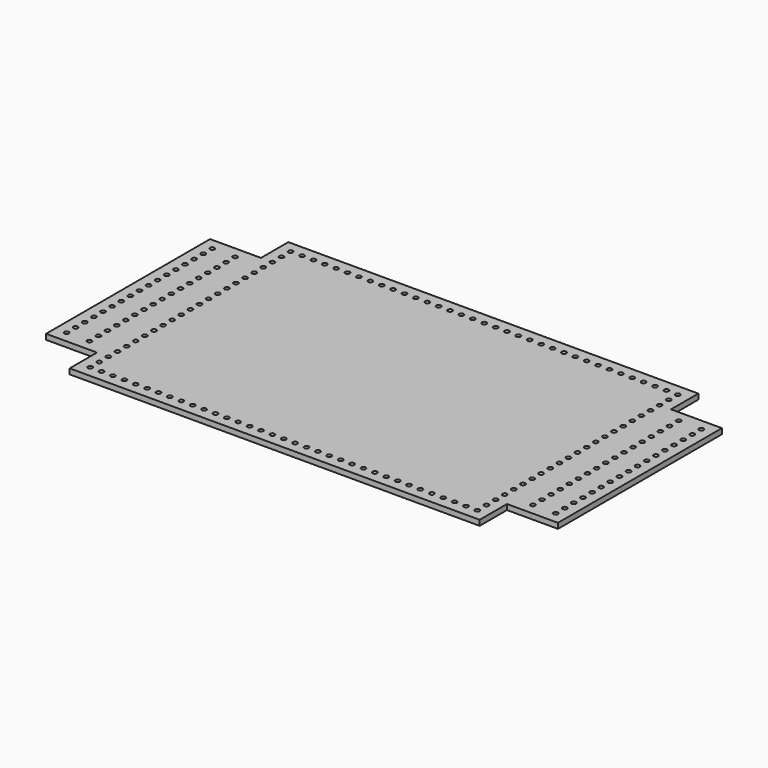
from build123d import *

# Parameters (mm, degrees)
F0_R     = 2.5527
F1_DEPTH = 6


with BuildPart() as f1:
    # F0 (on Top) → F1 (new body)
    with BuildSketch(Plane.XY):
        Polygon((228.6, 114.3), (228.6, 152.4), (-228.6, 152.4), (-228.6, 114.3), (-285.4, 114.3), (-285.4, -114.3), (-228.6, -114.3), (-228.6, -152.4), (228.6, -152.4), (228.6, -114.3), (285.4, -114.3), (285.4, 114.3), align=None)
        with Locations((-215.9, -139.7)):
            Circle(F0_R, mode=Mode.SUBTRACT)
        with Locations((-215.9, -127)):
            Circle(F0_R, mode=Mode.SUBTRACT)
        with Locations((-203.2, -139.7)):
            Circle(F0_R, mode=Mode.SUBTRACT)
        with Locations((-190.5, -139.7)):
            Circle(F0_R, mode=Mode.SUBTRACT)
        with Locations((-177.8, -139.7)):
            Circle(F0_R, mode=Mode.SUBTRACT)
        with Locations((-165.1, -139.7)):
            Circle(F0_R, mode=Mode.SUBTRACT)
        with Locations((-152.4, -139.7)):
            Circle(F0_R, mode=Mode.SUBTRACT)
        with Locations((-272.7, -101.6)):
            Circle(F0_R, mode=Mode.SUBTRACT)
        with Locations((-215.9, -114.3)):
            Circle(F0_R, mode=Mode.SUBTRACT)
        with Locations((-247.3, -101.6)):
            Circle(F0_R, mode=Mode.SUBTRACT)
        with Locations((-215.9, -101.6)):
            Circle(F0_R, mode=Mode.SUBTRACT)
        with Locations((-272.7, -88.9)):
            Circle(F0_R, mode=Mode.SUBTRACT)
        with Locations((-247.3, -88.9)):
            Circle(F0_R, mode=Mode.SUBTRACT)
        with Locations((-215.9, -88.9)):
            Circle(F0_R, mode=Mode.SUBTRACT)
        with Locations((-139.7, -139.7)):
            Circle(F0_R, mode=Mode.SUBTRACT)
        with Locations((-127, -139.7)):
            Circle(F0_R, mode=Mode.SUBTRACT)
        with Locations((-114.3, -139.7)):
            Circle(F0_R, mode=Mode.SUBTRACT)
        with Locations((-101.6, -139.7)):
            Circle(F0_R, mode=Mode.SUBTRACT)
        with Locations((-88.9, -139.7)):
            Circle(F0_R, mode=Mode.SUBTRACT)
        with Locations((-76.2, -139.7)):
            Circle(F0_R, mode=Mode.SUBTRACT)
        with Locations((-63.5, -139.7)):
            Circle(F0_R, mode=Mode.SUBTRACT)
        with Locations((-50.8, -139.7)):
            Circle(F0_R, mode=Mode.SUBTRACT)
        with Locations((-38.1, -139.7)):
            Circle(F0_R, mode=Mode.SUBTRACT)
        with Locations((-25.4, -139.7)):
            Circle(F0_R, mode=Mode.SUBTRACT)
        with Locations((-12.7, -139.7)):
            Circle(F0_R, mode=Mode.SUBTRACT)
        with Locations((-272.7, -76.2)):
            Circle(F0_R, mode=Mode.SUBTRACT)
        with Locations((-272.7, -63.5)):
            Circle(F0_R, mode=Mode.SUBTRACT)
        with Locations((-247.3, -76.2)):
            Circle(F0_R, mode=Mode.SUBTRACT)
        with Locations((-215.9, -76.2)):
            Circle(F0_R, mode=Mode.SUBTRACT)
        with Locations((-247.3, -63.5)):
            Circle(F0_R, mode=Mode.SUBTRACT)
        with Locations((-215.9, -63.5)):
            Circle(F0_R, mode=Mode.SUBTRACT)
        with Locations((-272.7, -50.8)):
            Circle(F0_R, mode=Mode.SUBTRACT)
        with Locations((-247.3, -50.8)):
            Circle(F0_R, mode=Mode.SUBTRACT)
        with Locations((-215.9, -50.8)):
            Circle(F0_R, mode=Mode.SUBTRACT)
        with Locations((-272.7, -38.1)):
            Circle(F0_R, mode=Mode.SUBTRACT)
        with Locations((-272.7, -25.4)):
            Circle(F0_R, mode=Mode.SUBTRACT)
        with Locations((-247.3, -38.1)):
            Circle(F0_R, mode=Mode.SUBTRACT)
        with Locations((-215.9, -38.1)):
            Circle(F0_R, mode=Mode.SUBTRACT)
        with Locations((-247.3, -25.4)):
            Circle(F0_R, mode=Mode.SUBTRACT)
        with Locations((-215.9, -25.4)):
            Circle(F0_R, mode=Mode.SUBTRACT)
        with Locations((-272.7, -12.7)):
            Circle(F0_R, mode=Mode.SUBTRACT)
        with Locations((-247.3, -12.7)):
            Circle(F0_R, mode=Mode.SUBTRACT)
        with Locations((-215.9, -12.7)):
            Circle(F0_R, mode=Mode.SUBTRACT)
        with Locations((0, -139.7)):
            Circle(F0_R, mode=Mode.SUBTRACT)
        with Locations((12.7, -139.7)):
            Circle(F0_R, mode=Mode.SUBTRACT)
        with Locations((25.4, -139.7)):
            Circle(F0_R, mode=Mode.SUBTRACT)
        with Locations((38.1, -139.7)):
            Circle(F0_R, mode=Mode.SUBTRACT)
        with Locations((50.8, -139.7)):
            Circle(F0_R, mode=Mode.SUBTRACT)
        with Locations((63.5, -139.7)):
            Circle(F0_R, mode=Mode.SUBTRACT)
        with Locations((76.2, -139.7)):
            Circle(F0_R, mode=Mode.SUBTRACT)
        with Locations((88.9, -139.7)):
            Circle(F0_R, mode=Mode.SUBTRACT)
        with Locations((101.6, -139.7)):
            Circle(F0_R, mode=Mode.SUBTRACT)
        with Locations((114.3, -139.7)):
            Circle(F0_R, mode=Mode.SUBTRACT)
        with Locations((127, -139.7)):
            Circle(F0_R, mode=Mode.SUBTRACT)
        with Locations((139.7, -139.7)):
            Circle(F0_R, mode=Mode.SUBTRACT)
        with Locations((152.4, -139.7)):
            Circle(F0_R, mode=Mode.SUBTRACT)
        with Locations((165.1, -139.7)):
            Circle(F0_R, mode=Mode.SUBTRACT)
        with Locations((177.8, -139.7)):
            Circle(F0_R, mode=Mode.SUBTRACT)
        with Locations((190.5, -139.7)):
            Circle(F0_R, mode=Mode.SUBTRACT)
        with Locations((203.2, -139.7)):
            Circle(F0_R, mode=Mode.SUBTRACT)
        with Locations((215.9, -139.7)):
            Circle(F0_R, mode=Mode.SUBTRACT)
        with Locations((215.9, -127)):
            Circle(F0_R, mode=Mode.SUBTRACT)
        with Locations((215.9, -114.3)):
            Circle(F0_R, mode=Mode.SUBTRACT)
        with Locations((215.9, -101.6)):
            Circle(F0_R, mode=Mode.SUBTRACT)
        with Locations((247.3, -101.6)):
            Circle(F0_R, mode=Mode.SUBTRACT)
        with Locations((272.7, -101.6)):
            Circle(F0_R, mode=Mode.SUBTRACT)
        with Locations((215.9, -88.9)):
            Circle(F0_R, mode=Mode.SUBTRACT)
        with Locations((247.3, -88.9)):
            Circle(F0_R, mode=Mode.SUBTRACT)
        with Locations((272.7, -88.9)):
            Circle(F0_R, mode=Mode.SUBTRACT)
        with Locations((215.9, -76.2)):
            Circle(F0_R, mode=Mode.SUBTRACT)
        with Locations((247.3, -76.2)):
            Circle(F0_R, mode=Mode.SUBTRACT)
        with Locations((215.9, -63.5)):
            Circle(F0_R, mode=Mode.SUBTRACT)
        with Locations((247.3, -63.5)):
            Circle(F0_R, mode=Mode.SUBTRACT)
        with Locations((272.7, -76.2)):
            Circle(F0_R, mode=Mode.SUBTRACT)
        with Locations((272.7, -63.5)):
            Circle(F0_R, mode=Mode.SUBTRACT)
        with Locations((215.9, -50.8)):
            Circle(F0_R, mode=Mode.SUBTRACT)
        with Locations((247.3, -50.8)):
            Circle(F0_R, mode=Mode.SUBTRACT)
        with Locations((272.7, -50.8)):
            Circle(F0_R, mode=Mode.SUBTRACT)
        with Locations((215.9, -38.1)):
            Circle(F0_R, mode=Mode.SUBTRACT)
        with Locations((247.3, -38.1)):
            Circle(F0_R, mode=Mode.SUBTRACT)
        with Locations((215.9, -25.4)):
            Circle(F0_R, mode=Mode.SUBTRACT)
        with Locations((247.3, -25.4)):
            Circle(F0_R, mode=Mode.SUBTRACT)
        with Locations((272.7, -38.1)):
            Circle(F0_R, mode=Mode.SUBTRACT)
        with Locations((272.7, -25.4)):
            Circle(F0_R, mode=Mode.SUBTRACT)
        with Locations((215.9, -12.7)):
            Circle(F0_R, mode=Mode.SUBTRACT)
        with Locations((247.3, -12.7)):
            Circle(F0_R, mode=Mode.SUBTRACT)
        with Locations((272.7, -12.7)):
            Circle(F0_R, mode=Mode.SUBTRACT)
        with Locations((-272.7, 0)):
            Circle(F0_R, mode=Mode.SUBTRACT)
        with Locations((-272.7, 12.7)):
            Circle(F0_R, mode=Mode.SUBTRACT)
        with Locations((-247.3, 0)):
            Circle(F0_R, mode=Mode.SUBTRACT)
        with Locations((-215.9, 0)):
            Circle(F0_R, mode=Mode.SUBTRACT)
        with Locations((-247.3, 12.7)):
            Circle(F0_R, mode=Mode.SUBTRACT)
        with Locations((-215.9, 12.7)):
            Circle(F0_R, mode=Mode.SUBTRACT)
        with Locations((-272.7, 25.4)):
            Circle(F0_R, mode=Mode.SUBTRACT)
        with Locations((-247.3, 25.4)):
            Circle(F0_R, mode=Mode.SUBTRACT)
        with Locations((-215.9, 25.4)):
            Circle(F0_R, mode=Mode.SUBTRACT)
        with Locations((-272.7, 38.1)):
            Circle(F0_R, mode=Mode.SUBTRACT)
        with Locations((-272.7, 50.8)):
            Circle(F0_R, mode=Mode.SUBTRACT)
        with Locations((-247.3, 38.1)):
            Circle(F0_R, mode=Mode.SUBTRACT)
        with Locations((-215.9, 38.1)):
            Circle(F0_R, mode=Mode.SUBTRACT)
        with Locations((-247.3, 50.8)):
            Circle(F0_R, mode=Mode.SUBTRACT)
        with Locations((-215.9, 50.8)):
            Circle(F0_R, mode=Mode.SUBTRACT)
        with Locations((-272.7, 63.5)):
            Circle(F0_R, mode=Mode.SUBTRACT)
        with Locations((-247.3, 63.5)):
            Circle(F0_R, mode=Mode.SUBTRACT)
        with Locations((-215.9, 63.5)):
            Circle(F0_R, mode=Mode.SUBTRACT)
        with Locations((-272.7, 76.2)):
            Circle(F0_R, mode=Mode.SUBTRACT)
        with Locations((-272.7, 88.9)):
            Circle(F0_R, mode=Mode.SUBTRACT)
        with Locations((-247.3, 76.2)):
            Circle(F0_R, mode=Mode.SUBTRACT)
        with Locations((-215.9, 76.2)):
            Circle(F0_R, mode=Mode.SUBTRACT)
        with Locations((-247.3, 88.9)):
            Circle(F0_R, mode=Mode.SUBTRACT)
        with Locations((-215.9, 88.9)):
            Circle(F0_R, mode=Mode.SUBTRACT)
        with Locations((-272.7, 101.6)):
            Circle(F0_R, mode=Mode.SUBTRACT)
        with Locations((-247.3, 101.6)):
            Circle(F0_R, mode=Mode.SUBTRACT)
        with Locations((-215.9, 101.6)):
            Circle(F0_R, mode=Mode.SUBTRACT)
        with Locations((-215.9, 114.3)):
            Circle(F0_R, mode=Mode.SUBTRACT)
        with Locations((-215.9, 127)):
            Circle(F0_R, mode=Mode.SUBTRACT)
        with Locations((-215.9, 139.7)):
            Circle(F0_R, mode=Mode.SUBTRACT)
        with Locations((-203.2, 139.7)):
            Circle(F0_R, mode=Mode.SUBTRACT)
        with Locations((-190.5, 139.7)):
            Circle(F0_R, mode=Mode.SUBTRACT)
        with Locations((-177.8, 139.7)):
            Circle(F0_R, mode=Mode.SUBTRACT)
        with Locations((-165.1, 139.7)):
            Circle(F0_R, mode=Mode.SUBTRACT)
        with Locations((-152.4, 139.7)):
            Circle(F0_R, mode=Mode.SUBTRACT)
        with Locations((-139.7, 139.7)):
            Circle(F0_R, mode=Mode.SUBTRACT)
        with Locations((-127, 139.7)):
            Circle(F0_R, mode=Mode.SUBTRACT)
        with Locations((-114.3, 139.7)):
            Circle(F0_R, mode=Mode.SUBTRACT)
        with Locations((-101.6, 139.7)):
            Circle(F0_R, mode=Mode.SUBTRACT)
        with Locations((-88.9, 139.7)):
            Circle(F0_R, mode=Mode.SUBTRACT)
        with Locations((-76.2, 139.7)):
            Circle(F0_R, mode=Mode.SUBTRACT)
        with Locations((-63.5, 139.7)):
            Circle(F0_R, mode=Mode.SUBTRACT)
        with Locations((-50.8, 139.7)):
            Circle(F0_R, mode=Mode.SUBTRACT)
        with Locations((-38.1, 139.7)):
            Circle(F0_R, mode=Mode.SUBTRACT)
        with Locations((-25.4, 139.7)):
            Circle(F0_R, mode=Mode.SUBTRACT)
        with Locations((-12.7, 139.7)):
            Circle(F0_R, mode=Mode.SUBTRACT)
        with Locations((215.9, 0)):
            Circle(F0_R, mode=Mode.SUBTRACT)
        with Locations((247.3, 0)):
            Circle(F0_R, mode=Mode.SUBTRACT)
        with Locations((215.9, 12.7)):
            Circle(F0_R, mode=Mode.SUBTRACT)
        with Locations((247.3, 12.7)):
            Circle(F0_R, mode=Mode.SUBTRACT)
        with Locations((272.7, 0)):
            Circle(F0_R, mode=Mode.SUBTRACT)
        with Locations((272.7, 12.7)):
            Circle(F0_R, mode=Mode.SUBTRACT)
        with Locations((215.9, 25.4)):
            Circle(F0_R, mode=Mode.SUBTRACT)
        with Locations((247.3, 25.4)):
            Circle(F0_R, mode=Mode.SUBTRACT)
        with Locations((272.7, 25.4)):
            Circle(F0_R, mode=Mode.SUBTRACT)
        with Locations((215.9, 38.1)):
            Circle(F0_R, mode=Mode.SUBTRACT)
        with Locations((247.3, 38.1)):
            Circle(F0_R, mode=Mode.SUBTRACT)
        with Locations((215.9, 50.8)):
            Circle(F0_R, mode=Mode.SUBTRACT)
        with Locations((247.3, 50.8)):
            Circle(F0_R, mode=Mode.SUBTRACT)
        with Locations((272.7, 38.1)):
            Circle(F0_R, mode=Mode.SUBTRACT)
        with Locations((272.7, 50.8)):
            Circle(F0_R, mode=Mode.SUBTRACT)
        with Locations((215.9, 63.5)):
            Circle(F0_R, mode=Mode.SUBTRACT)
        with Locations((247.3, 63.5)):
            Circle(F0_R, mode=Mode.SUBTRACT)
        with Locations((272.7, 63.5)):
            Circle(F0_R, mode=Mode.SUBTRACT)
        with Locations((0, 139.7)):
            Circle(F0_R, mode=Mode.SUBTRACT)
        with Locations((12.7, 139.7)):
            Circle(F0_R, mode=Mode.SUBTRACT)
        with Locations((25.4, 139.7)):
            Circle(F0_R, mode=Mode.SUBTRACT)
        with Locations((38.1, 139.7)):
            Circle(F0_R, mode=Mode.SUBTRACT)
        with Locations((50.8, 139.7)):
            Circle(F0_R, mode=Mode.SUBTRACT)
        with Locations((63.5, 139.7)):
            Circle(F0_R, mode=Mode.SUBTRACT)
        with Locations((76.2, 139.7)):
            Circle(F0_R, mode=Mode.SUBTRACT)
        with Locations((88.9, 139.7)):
            Circle(F0_R, mode=Mode.SUBTRACT)
        with Locations((101.6, 139.7)):
            Circle(F0_R, mode=Mode.SUBTRACT)
        with Locations((114.3, 139.7)):
            Circle(F0_R, mode=Mode.SUBTRACT)
        with Locations((127, 139.7)):
            Circle(F0_R, mode=Mode.SUBTRACT)
        with Locations((139.7, 139.7)):
            Circle(F0_R, mode=Mode.SUBTRACT)
        with Locations((215.9, 76.2)):
            Circle(F0_R, mode=Mode.SUBTRACT)
        with Locations((247.3, 76.2)):
            Circle(F0_R, mode=Mode.SUBTRACT)
        with Locations((215.9, 88.9)):
            Circle(F0_R, mode=Mode.SUBTRACT)
        with Locations((247.3, 88.9)):
            Circle(F0_R, mode=Mode.SUBTRACT)
        with Locations((272.7, 76.2)):
            Circle(F0_R, mode=Mode.SUBTRACT)
        with Locations((272.7, 88.9)):
            Circle(F0_R, mode=Mode.SUBTRACT)
        with Locations((215.9, 101.6)):
            Circle(F0_R, mode=Mode.SUBTRACT)
        with Locations((247.3, 101.6)):
            Circle(F0_R, mode=Mode.SUBTRACT)
        with Locations((272.7, 101.6)):
            Circle(F0_R, mode=Mode.SUBTRACT)
        with Locations((152.4, 139.7)):
            Circle(F0_R, mode=Mode.SUBTRACT)
        with Locations((165.1, 139.7)):
            Circle(F0_R, mode=Mode.SUBTRACT)
        with Locations((177.8, 139.7)):
            Circle(F0_R, mode=Mode.SUBTRACT)
        with Locations((190.5, 139.7)):
            Circle(F0_R, mode=Mode.SUBTRACT)
        with Locations((203.2, 139.7)):
            Circle(F0_R, mode=Mode.SUBTRACT)
        with Locations((215.9, 114.3)):
            Circle(F0_R, mode=Mode.SUBTRACT)
        with Locations((215.9, 127)):
            Circle(F0_R, mode=Mode.SUBTRACT)
        with Locations((215.9, 139.7)):
            Circle(F0_R, mode=Mode.SUBTRACT)
    extrude(amount=F1_DEPTH)


solid = f1.part
